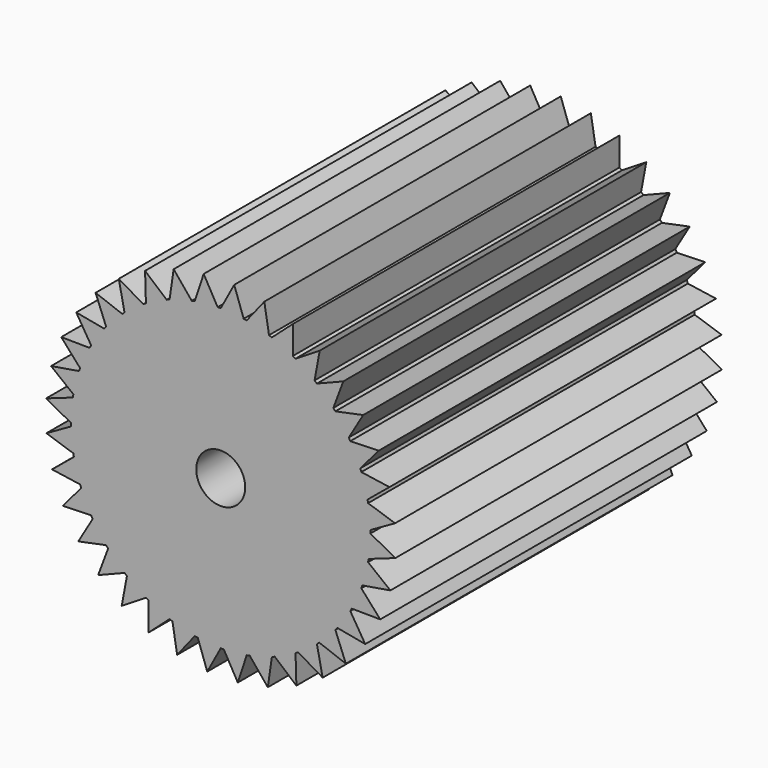
from build123d import *

# Parameters (mm, degrees)
F1_DEPTH = 63.5
F2_R     = 3.81
F3_DEPTH = 101.6


with BuildPart() as f1:
    # F0 (on Front) → F1 (new body)
    with BuildSketch(Plane.XZ):
        with BuildLine():
            Line((23.0036076923, -3.5707884211), (23.2791, 0))
            ThreePointArc((23.2791, 0), (23.2778729939, 0.2390098149), (23.2741921048, 0.477994434))
            Line((23.2741921048, 0.477994434), (22.9254381631, 4.0423732927))
            ThreePointArc((22.9254381631, 4.0423732927), (22.8827261792, 4.2775389441), (22.8376019675, 4.5122536702))
            Line((22.8376019675, 4.5122536702), (21.8751984885, 7.9619211185))
            ThreePointArc((21.8751984885, 7.9619211185), (21.7922993088, 8.186097217), (21.7071028508, 8.4094103619))
            Line((21.7071028508, 8.4094103619), (20.1602919772, 11.63955))
            ThreePointArc((20.1602919772, 11.63955), (20.0397244513, 11.8459250684), (19.9170443983, 12.0510513752))
            Line((19.9170443983, 12.0510513752), (17.8328251958, 14.9635170447))
            ThreePointArc((17.8328251958, 14.9635170447), (17.678252707, 15.1458204808), (17.5218166303, 15.3265272905))
            Line((17.5218166303, 15.3265272905), (14.9635170447, 17.8328251958))
            ThreePointArc((14.9635170447, 17.8328251958), (14.7796361998, 17.9855178022), (14.5941973304, 18.1363144297))
            Line((14.5941973304, 18.1363144297), (11.63955, 20.1602919772))
            ThreePointArc((11.63955, 20.1602919772), (11.4319479255, 20.2787342662), (11.2231407296, 20.3950388323))
            Line((11.2231407296, 20.3950388323), (7.9619211185, 21.8751984885))
            ThreePointArc((7.9619211185, 21.8751984885), (7.7369056983, 21.9557916511), (7.511074677, 22.0340703005))
            Line((7.511074677, 22.0340703005), (4.0423732927, 22.9254381631))
            ThreePointArc((4.0423732927, 22.9254381631), (3.8067815066, 22.9657334168), (3.5707884211, 23.0036076923))
            Line((3.5707884211, 23.0036076923), (0, 23.2791))
            ThreePointArc((0, 23.2791), (-0.2390098149, 23.2778729939), (-0.477994434, 23.2741921048))
            Line((-0.477994434, 23.2741921048), (-4.0423732927, 22.9254381631))
            ThreePointArc((-4.0423732927, 22.9254381631), (-4.2775389441, 22.8827261792), (-4.5122536702, 22.8376019675))
            Line((-4.5122536702, 22.8376019675), (-7.9619211185, 21.8751984885))
            ThreePointArc((-7.9619211185, 21.8751984885), (-8.186097217, 21.7922993088), (-8.4094103619, 21.7071028508))
            Line((-8.4094103619, 21.7071028508), (-11.63955, 20.1602919772))
            ThreePointArc((-11.63955, 20.1602919772), (-11.8459250684, 20.0397244513), (-12.0510513752, 19.9170443983))
            Line((-12.0510513752, 19.9170443983), (-14.9635170447, 17.8328251958))
            ThreePointArc((-14.9635170447, 17.8328251958), (-15.1458204808, 17.678252707), (-15.3265272905, 17.5218166303))
            Line((-15.3265272905, 17.5218166303), (-17.8328251958, 14.9635170447))
            ThreePointArc((-17.8328251958, 14.9635170447), (-17.9855178022, 14.7796361998), (-18.1363144297, 14.5941973304))
            Line((-18.1363144297, 14.5941973304), (-20.1602919772, 11.63955))
            ThreePointArc((-20.1602919772, 11.63955), (-20.2787342662, 11.4319479255), (-20.3950388323, 11.2231407296))
            Line((-20.3950388323, 11.2231407296), (-21.8751984885, 7.9619211185))
            ThreePointArc((-21.8751984885, 7.9619211185), (-21.9557916511, 7.7369056983), (-22.0340703005, 7.511074677))
            Line((-22.0340703005, 7.511074677), (-22.9254381631, 4.0423732927))
            ThreePointArc((-22.9254381631, 4.0423732927), (-22.9657334168, 3.8067815066), (-23.0036076923, 3.5707884211))
            Line((-23.0036076923, 3.5707884211), (-23.2791, 0))
            ThreePointArc((-23.2791, 0), (-23.2778729939, -0.2390098149), (-23.2741921048, -0.477994434))
            Line((-23.2741921048, -0.477994434), (-22.9254381631, -4.0423732927))
            ThreePointArc((-22.9254381631, -4.0423732927), (-22.8827261792, -4.2775389441), (-22.8376019675, -4.5122536702))
            Line((-22.8376019675, -4.5122536702), (-21.8751984885, -7.9619211185))
            ThreePointArc((-21.8751984885, -7.9619211185), (-21.7922993088, -8.186097217), (-21.7071028508, -8.4094103619))
            Line((-21.7071028508, -8.4094103619), (-20.1602919772, -11.63955))
            ThreePointArc((-20.1602919772, -11.63955), (-20.0397244513, -11.8459250684), (-19.9170443983, -12.0510513752))
            Line((-19.9170443983, -12.0510513752), (-17.8328251958, -14.9635170447))
            ThreePointArc((-17.8328251958, -14.9635170447), (-17.678252707, -15.1458204808), (-17.5218166303, -15.3265272905))
            Line((-17.5218166303, -15.3265272905), (-14.9635170447, -17.8328251958))
            ThreePointArc((-14.9635170447, -17.8328251958), (-14.7796361998, -17.9855178022), (-14.5941973304, -18.1363144297))
            Line((-14.5941973304, -18.1363144297), (-11.63955, -20.1602919772))
            ThreePointArc((-11.63955, -20.1602919772), (-11.4319479255, -20.2787342662), (-11.2231407296, -20.3950388323))
            Line((-11.2231407296, -20.3950388323), (-7.9619211185, -21.8751984885))
            ThreePointArc((-7.9619211185, -21.8751984885), (-7.7369056983, -21.9557916511), (-7.511074677, -22.0340703005))
            Line((-7.511074677, -22.0340703005), (-4.0423732927, -22.9254381631))
            ThreePointArc((-4.0423732927, -22.9254381631), (-3.8067815066, -22.9657334168), (-3.5707884211, -23.0036076923))
            Line((-3.5707884211, -23.0036076923), (0, -23.2791))
            ThreePointArc((0, -23.2791), (0.2390098149, -23.2778729939), (0.477994434, -23.2741921048))
            Line((0.477994434, -23.2741921048), (4.0423732927, -22.9254381631))
            ThreePointArc((4.0423732927, -22.9254381631), (4.2775389441, -22.8827261792), (4.5122536702, -22.8376019675))
            Line((4.5122536702, -22.8376019675), (7.9619211185, -21.8751984885))
            ThreePointArc((7.9619211185, -21.8751984885), (8.186097217, -21.7922993088), (8.4094103619, -21.7071028508))
            Line((8.4094103619, -21.7071028508), (11.63955, -20.1602919772))
            ThreePointArc((11.63955, -20.1602919772), (11.8459250684, -20.0397244513), (12.0510513752, -19.9170443983))
            Line((12.0510513752, -19.9170443983), (14.9635170447, -17.8328251958))
            ThreePointArc((14.9635170447, -17.8328251958), (15.1458204808, -17.678252707), (15.3265272905, -17.5218166303))
            Line((15.3265272905, -17.5218166303), (17.8328251958, -14.9635170447))
            ThreePointArc((17.8328251958, -14.9635170447), (17.9855178022, -14.7796361998), (18.1363144297, -14.5941973304))
            Line((18.1363144297, -14.5941973304), (20.1602919772, -11.63955))
            ThreePointArc((20.1602919772, -11.63955), (20.2787342662, -11.4319479255), (20.3950388323, -11.2231407296))
            Line((20.3950388323, -11.2231407296), (21.8751984885, -7.9619211185))
            ThreePointArc((21.8751984885, -7.9619211185), (21.9557916511, -7.7369056983), (22.0340703005, -7.511074677))
            Line((22.0340703005, -7.511074677), (22.9254381631, -4.0423732927))
            ThreePointArc((22.9254381631, -4.0423732927), (22.9657334168, -3.8067815066), (23.0036076923, -3.5707884211))
        make_face()
        with BuildLine():
            Line((27.1699581448, -2.09620778), (23.2791, 0))
            ThreePointArc((23.2791, 0), (23.2101247373, -1.7907), (23.0036076923, -3.5707884211))
            Line((23.0036076923, -3.5707884211), (27.1699581448, -2.09620778))
        make_face()
        with BuildLine():
            ThreePointArc((23.0036076923, -3.5707884211), (23.2101247373, -1.7907), (23.2791, 0))
            Line((23.2791, 0), (23.0036076923, -3.5707884211))
        make_face()
        with BuildLine():
            Line((22.9254381631, 4.0423732927), (23.2741921048, 0.477994434))
            ThreePointArc((23.2741921048, 0.477994434), (23.1684625814, 2.2669006207), (22.9254381631, 4.0423732927))
        make_face()
        with BuildLine():
            ThreePointArc((22.9254381631, 4.0423732927), (23.1684625814, 2.2669006207), (23.2741921048, 0.477994434))
            Line((23.2741921048, 0.477994434), (27.121188091, 2.6536520454))
            Line((27.121188091, 2.6536520454), (22.9254381631, 4.0423732927))
        make_face()
        with BuildLine():
            Line((26.393182769, -6.7823753928), (22.9254381631, -4.0423732927))
            ThreePointArc((22.9254381631, -4.0423732927), (22.5465589979, -5.7938911074), (22.0340703005, -7.511074677))
            Line((22.0340703005, -7.511074677), (26.393182769, -6.7823753928))
        make_face()
        with BuildLine():
            ThreePointArc((22.0340703005, -7.511074677), (22.5465589979, -5.7938911074), (22.9254381631, -4.0423732927))
            Line((22.9254381631, -4.0423732927), (22.0340703005, -7.511074677))
        make_face()
        with BuildLine():
            Line((21.8751984885, 7.9619211185), (22.8376019675, 4.5122536702))
            ThreePointArc((22.8376019675, 4.5122536702), (22.4228384138, 6.2556226132), (21.8751984885, 7.9619211185))
        make_face()
        with BuildLine():
            ThreePointArc((21.8751984885, 7.9619211185), (22.4228384138, 6.2556226132), (22.8376019675, 4.5122536702))
            Line((22.8376019675, 4.5122536702), (26.2483544611, 7.3228819963))
            Line((26.2483544611, 7.3228819963), (21.8751984885, 7.9619211185))
        make_face()
        with BuildLine():
            Line((24.8144638904, -11.2624639614), (21.8751984885, -7.9619211185))
            ThreePointArc((21.8751984885, -7.9619211185), (21.1979274725, -9.6210377653), (20.3950388323, -11.2231407296))
            Line((20.3950388323, -11.2231407296), (24.8144638904, -11.2624639614))
        make_face()
        with BuildLine():
            ThreePointArc((20.3950388323, -11.2231407296), (21.1979274725, -9.6210377653), (21.8751984885, -7.9619211185))
            Line((21.8751984885, -7.9619211185), (20.3950388323, -11.2231407296))
        make_face()
        with BuildLine():
            Line((20.1602919772, 11.63955), (21.7071028508, 8.4094103619))
            ThreePointArc((21.7071028508, 8.4094103619), (20.9959076475, 10.0542706781), (20.1602919772, 11.63955))
        make_face()
        with BuildLine():
            ThreePointArc((20.1602919772, 11.63955), (20.9959076475, 10.0542706781), (21.7071028508, 8.4094103619))
            Line((21.7071028508, 8.4094103619), (24.5779778632, 11.7696098833))
            Line((24.5779778632, 11.7696098833), (20.1602919772, 11.63955))
        make_face()
        with BuildLine():
            Line((22.4817700831, -15.4003482615), (20.1602919772, -11.63955))
            ThreePointArc((20.1602919772, -11.63955), (19.2052076475, -13.1558540592), (18.1363144297, -14.5941973304))
            Line((18.1363144297, -14.5941973304), (22.4817700831, -15.4003482615))
        make_face()
        with BuildLine():
            ThreePointArc((18.1363144297, -14.5941973304), (19.2052076475, -13.1558540592), (20.1602919772, -11.63955))
            Line((20.1602919772, -11.63955), (18.1363144297, -14.5941973304))
        make_face()
        with BuildLine():
            Line((17.8328251958, 14.9635170447), (19.9170443983, 12.0510513752))
            ThreePointArc((19.9170443983, 12.0510513752), (18.9310268518, 13.5474248161), (17.8328251958, 14.9635170447))
        make_face()
        with BuildLine():
            ThreePointArc((17.8328251958, 14.9635170447), (18.9310268518, 13.5474248161), (19.9170443983, 12.0510513752))
            Line((19.9170443983, 12.0510513752), (22.1608118449, 15.8587241297))
            Line((22.1608118449, 15.8587241297), (17.8328251958, 14.9635170447))
        make_face()
        with BuildLine():
            Line((19.4659790683, -19.0703007727), (17.8328251958, -14.9635170447))
            ThreePointArc((17.8328251958, -14.9635170447), (16.6289473064, -16.2909363847), (15.3265272905, -17.5218166303))
            Line((15.3265272905, -17.5218166303), (19.4659790683, -19.0703007727))
        make_face()
        with BuildLine():
            ThreePointArc((15.3265272905, -17.5218166303), (16.6289473064, -16.2909363847), (17.8328251958, -14.9635170447))
            Line((17.8328251958, -14.9635170447), (15.3265272905, -17.5218166303))
        make_face()
        with BuildLine():
            Line((14.9635170447, 17.8328251958), (17.5218166303, 15.3265272905))
            ThreePointArc((17.5218166303, 15.3265272905), (16.2909363847, 16.6289473064), (14.9635170447, 17.8328251958))
        make_face()
        with BuildLine():
            ThreePointArc((14.9635170447, 17.8328251958), (16.2909363847, 16.6289473064), (17.5218166303, 15.3265272905))
            Line((17.5218166303, 15.3265272905), (19.0703007727, 19.4659790683))
            Line((19.0703007727, 19.4659790683), (14.9635170447, 17.8328251958))
        make_face()
        with BuildLine():
            Line((15.8587241297, -22.1608118449), (14.9635170447, -17.8328251958))
            ThreePointArc((14.9635170447, -17.8328251958), (13.5474248161, -18.9310268518), (12.0510513752, -19.9170443983))
            Line((12.0510513752, -19.9170443983), (15.8587241297, -22.1608118449))
        make_face()
        with BuildLine():
            ThreePointArc((12.0510513752, -19.9170443983), (13.5474248161, -18.9310268518), (14.9635170447, -17.8328251958))
            Line((14.9635170447, -17.8328251958), (12.0510513752, -19.9170443983))
        make_face()
        with BuildLine():
            Line((11.63955, 20.1602919772), (14.5941973304, 18.1363144297))
            ThreePointArc((14.5941973304, 18.1363144297), (13.1558540592, 19.2052076475), (11.63955, 20.1602919772))
        make_face()
        with BuildLine():
            ThreePointArc((11.63955, 20.1602919772), (13.1558540592, 19.2052076475), (14.5941973304, 18.1363144297))
            Line((14.5941973304, 18.1363144297), (15.4003482615, 22.4817700831))
            Line((15.4003482615, 22.4817700831), (11.63955, 20.1602919772))
        make_face()
        with BuildLine():
            Line((11.7696098833, -24.5779778632), (11.63955, -20.1602919772))
            ThreePointArc((11.63955, -20.1602919772), (10.0542706781, -20.9959076475), (8.4094103619, -21.7071028508))
            Line((8.4094103619, -21.7071028508), (11.7696098833, -24.5779778632))
        make_face()
        with BuildLine():
            ThreePointArc((8.4094103619, -21.7071028508), (10.0542706781, -20.9959076475), (11.63955, -20.1602919772))
            Line((11.63955, -20.1602919772), (8.4094103619, -21.7071028508))
        make_face()
        with BuildLine():
            Line((7.9619211185, 21.8751984885), (11.2231407296, 20.3950388323))
            ThreePointArc((11.2231407296, 20.3950388323), (9.6210377653, 21.1979274725), (7.9619211185, 21.8751984885))
        make_face()
        with BuildLine():
            ThreePointArc((7.9619211185, 21.8751984885), (9.6210377653, 21.1979274725), (11.2231407296, 20.3950388323))
            Line((11.2231407296, 20.3950388323), (11.2624639614, 24.8144638904))
            Line((11.2624639614, 24.8144638904), (7.9619211185, 21.8751984885))
        make_face()
        with BuildLine():
            Line((7.3228819963, -26.2483544611), (7.9619211185, -21.8751984885))
            ThreePointArc((7.9619211185, -21.8751984885), (6.2556226132, -22.4228384138), (4.5122536702, -22.8376019675))
            Line((4.5122536702, -22.8376019675), (7.3228819963, -26.2483544611))
        make_face()
        with BuildLine():
            ThreePointArc((4.5122536702, -22.8376019675), (6.2556226132, -22.4228384138), (7.9619211185, -21.8751984885))
            Line((7.9619211185, -21.8751984885), (4.5122536702, -22.8376019675))
        make_face()
        with BuildLine():
            Line((4.0423732927, 22.9254381631), (7.511074677, 22.0340703005))
            ThreePointArc((7.511074677, 22.0340703005), (5.7938911074, 22.5465589979), (4.0423732927, 22.9254381631))
        make_face()
        with BuildLine():
            ThreePointArc((4.0423732927, 22.9254381631), (5.7938911074, 22.5465589979), (7.511074677, 22.0340703005))
            Line((7.511074677, 22.0340703005), (6.7823753928, 26.393182769))
            Line((6.7823753928, 26.393182769), (4.0423732927, 22.9254381631))
        make_face()
        with BuildLine():
            Line((2.6536520454, -27.121188091), (4.0423732927, -22.9254381631))
            ThreePointArc((4.0423732927, -22.9254381631), (2.2669006207, -23.1684625814), (0.477994434, -23.2741921048))
            Line((0.477994434, -23.2741921048), (2.6536520454, -27.121188091))
        make_face()
        with BuildLine():
            ThreePointArc((0.477994434, -23.2741921048), (2.2669006207, -23.1684625814), (4.0423732927, -22.9254381631))
            Line((4.0423732927, -22.9254381631), (0.477994434, -23.2741921048))
        make_face()
        with BuildLine():
            Line((0, 23.2791), (3.5707884211, 23.0036076923))
            ThreePointArc((3.5707884211, 23.0036076923), (1.7907, 23.2101247373), (0, 23.2791))
        make_face()
        with BuildLine():
            ThreePointArc((0, 23.2791), (1.7907, 23.2101247373), (3.5707884211, 23.0036076923))
            Line((3.5707884211, 23.0036076923), (2.09620778, 27.1699581448))
            Line((2.09620778, 27.1699581448), (0, 23.2791))
        make_face()
        with BuildLine():
            Line((-2.09620778, -27.1699581448), (0, -23.2791))
            ThreePointArc((0, -23.2791), (-1.7907, -23.2101247373), (-3.5707884211, -23.0036076923))
            Line((-3.5707884211, -23.0036076923), (-2.09620778, -27.1699581448))
        make_face()
        with BuildLine():
            ThreePointArc((-3.5707884211, -23.0036076923), (-1.7907, -23.2101247373), (0, -23.2791))
            Line((0, -23.2791), (-3.5707884211, -23.0036076923))
        make_face()
        with BuildLine():
            Line((-4.0423732927, 22.9254381631), (-0.477994434, 23.2741921048))
            ThreePointArc((-0.477994434, 23.2741921048), (-2.2669006207, 23.1684625814), (-4.0423732927, 22.9254381631))
        make_face()
        with BuildLine():
            ThreePointArc((-4.0423732927, 22.9254381631), (-2.2669006207, 23.1684625814), (-0.477994434, 23.2741921048))
            Line((-0.477994434, 23.2741921048), (-2.6536520454, 27.121188091))
            Line((-2.6536520454, 27.121188091), (-4.0423732927, 22.9254381631))
        make_face()
        with BuildLine():
            Line((-6.7823753928, -26.393182769), (-4.0423732927, -22.9254381631))
            ThreePointArc((-4.0423732927, -22.9254381631), (-5.7938911074, -22.5465589979), (-7.511074677, -22.0340703005))
            Line((-7.511074677, -22.0340703005), (-6.7823753928, -26.393182769))
        make_face()
        with BuildLine():
            ThreePointArc((-7.511074677, -22.0340703005), (-5.7938911074, -22.5465589979), (-4.0423732927, -22.9254381631))
            Line((-4.0423732927, -22.9254381631), (-7.511074677, -22.0340703005))
        make_face()
        with BuildLine():
            Line((-7.9619211185, 21.8751984885), (-4.5122536702, 22.8376019675))
            ThreePointArc((-4.5122536702, 22.8376019675), (-6.2556226132, 22.4228384138), (-7.9619211185, 21.8751984885))
        make_face()
        with BuildLine():
            ThreePointArc((-7.9619211185, 21.8751984885), (-6.2556226132, 22.4228384138), (-4.5122536702, 22.8376019675))
            Line((-4.5122536702, 22.8376019675), (-7.3228819963, 26.2483544611))
            Line((-7.3228819963, 26.2483544611), (-7.9619211185, 21.8751984885))
        make_face()
        with BuildLine():
            Line((-11.2624639614, -24.8144638904), (-7.9619211185, -21.8751984885))
            ThreePointArc((-7.9619211185, -21.8751984885), (-9.6210377653, -21.1979274725), (-11.2231407296, -20.3950388323))
            Line((-11.2231407296, -20.3950388323), (-11.2624639614, -24.8144638904))
        make_face()
        with BuildLine():
            ThreePointArc((-11.2231407296, -20.3950388323), (-9.6210377653, -21.1979274725), (-7.9619211185, -21.8751984885))
            Line((-7.9619211185, -21.8751984885), (-11.2231407296, -20.3950388323))
        make_face()
        with BuildLine():
            Line((-11.63955, 20.1602919772), (-8.4094103619, 21.7071028508))
            ThreePointArc((-8.4094103619, 21.7071028508), (-10.0542706781, 20.9959076475), (-11.63955, 20.1602919772))
        make_face()
        with BuildLine():
            ThreePointArc((-11.63955, 20.1602919772), (-10.0542706781, 20.9959076475), (-8.4094103619, 21.7071028508))
            Line((-8.4094103619, 21.7071028508), (-11.7696098833, 24.5779778632))
            Line((-11.7696098833, 24.5779778632), (-11.63955, 20.1602919772))
        make_face()
        with BuildLine():
            Line((-15.4003482615, -22.4817700831), (-11.63955, -20.1602919772))
            ThreePointArc((-11.63955, -20.1602919772), (-13.1558540592, -19.2052076475), (-14.5941973304, -18.1363144297))
            Line((-14.5941973304, -18.1363144297), (-15.4003482615, -22.4817700831))
        make_face()
        with BuildLine():
            ThreePointArc((-14.5941973304, -18.1363144297), (-13.1558540592, -19.2052076475), (-11.63955, -20.1602919772))
            Line((-11.63955, -20.1602919772), (-14.5941973304, -18.1363144297))
        make_face()
        with BuildLine():
            Line((-14.9635170447, 17.8328251958), (-12.0510513752, 19.9170443983))
            ThreePointArc((-12.0510513752, 19.9170443983), (-13.5474248161, 18.9310268518), (-14.9635170447, 17.8328251958))
        make_face()
        with BuildLine():
            ThreePointArc((-14.9635170447, 17.8328251958), (-13.5474248161, 18.9310268518), (-12.0510513752, 19.9170443983))
            Line((-12.0510513752, 19.9170443983), (-15.8587241297, 22.1608118449))
            Line((-15.8587241297, 22.1608118449), (-14.9635170447, 17.8328251958))
        make_face()
        with BuildLine():
            Line((-19.0703007727, -19.4659790683), (-14.9635170447, -17.8328251958))
            ThreePointArc((-14.9635170447, -17.8328251958), (-16.2909363847, -16.6289473064), (-17.5218166303, -15.3265272905))
            Line((-17.5218166303, -15.3265272905), (-19.0703007727, -19.4659790683))
        make_face()
        with BuildLine():
            ThreePointArc((-17.5218166303, -15.3265272905), (-16.2909363847, -16.6289473064), (-14.9635170447, -17.8328251958))
            Line((-14.9635170447, -17.8328251958), (-17.5218166303, -15.3265272905))
        make_face()
        with BuildLine():
            Line((-17.8328251958, 14.9635170447), (-15.3265272905, 17.5218166303))
            ThreePointArc((-15.3265272905, 17.5218166303), (-16.6289473064, 16.2909363847), (-17.8328251958, 14.9635170447))
        make_face()
        with BuildLine():
            ThreePointArc((-17.8328251958, 14.9635170447), (-16.6289473064, 16.2909363847), (-15.3265272905, 17.5218166303))
            Line((-15.3265272905, 17.5218166303), (-19.4659790683, 19.0703007727))
            Line((-19.4659790683, 19.0703007727), (-17.8328251958, 14.9635170447))
        make_face()
        with BuildLine():
            Line((-22.1608118449, -15.8587241297), (-17.8328251958, -14.9635170447))
            ThreePointArc((-17.8328251958, -14.9635170447), (-18.9310268518, -13.5474248161), (-19.9170443983, -12.0510513752))
            Line((-19.9170443983, -12.0510513752), (-22.1608118449, -15.8587241297))
        make_face()
        with BuildLine():
            ThreePointArc((-19.9170443983, -12.0510513752), (-18.9310268518, -13.5474248161), (-17.8328251958, -14.9635170447))
            Line((-17.8328251958, -14.9635170447), (-19.9170443983, -12.0510513752))
        make_face()
        with BuildLine():
            Line((-20.1602919772, 11.63955), (-18.1363144297, 14.5941973304))
            ThreePointArc((-18.1363144297, 14.5941973304), (-19.2052076475, 13.1558540592), (-20.1602919772, 11.63955))
        make_face()
        with BuildLine():
            ThreePointArc((-20.1602919772, 11.63955), (-19.2052076475, 13.1558540592), (-18.1363144297, 14.5941973304))
            Line((-18.1363144297, 14.5941973304), (-22.4817700831, 15.4003482615))
            Line((-22.4817700831, 15.4003482615), (-20.1602919772, 11.63955))
        make_face()
        with BuildLine():
            Line((-24.5779778632, -11.7696098833), (-20.1602919772, -11.63955))
            ThreePointArc((-20.1602919772, -11.63955), (-20.9959076475, -10.0542706781), (-21.7071028508, -8.4094103619))
            Line((-21.7071028508, -8.4094103619), (-24.5779778632, -11.7696098833))
        make_face()
        with BuildLine():
            ThreePointArc((-21.7071028508, -8.4094103619), (-20.9959076475, -10.0542706781), (-20.1602919772, -11.63955))
            Line((-20.1602919772, -11.63955), (-21.7071028508, -8.4094103619))
        make_face()
        with BuildLine():
            Line((-21.8751984885, 7.9619211185), (-20.3950388323, 11.2231407296))
            ThreePointArc((-20.3950388323, 11.2231407296), (-21.1979274725, 9.6210377653), (-21.8751984885, 7.9619211185))
        make_face()
        with BuildLine():
            ThreePointArc((-21.8751984885, 7.9619211185), (-21.1979274725, 9.6210377653), (-20.3950388323, 11.2231407296))
            Line((-20.3950388323, 11.2231407296), (-24.8144638904, 11.2624639614))
            Line((-24.8144638904, 11.2624639614), (-21.8751984885, 7.9619211185))
        make_face()
        with BuildLine():
            Line((-26.2483544611, -7.3228819963), (-21.8751984885, -7.9619211185))
            ThreePointArc((-21.8751984885, -7.9619211185), (-22.4228384138, -6.2556226132), (-22.8376019675, -4.5122536702))
            Line((-22.8376019675, -4.5122536702), (-26.2483544611, -7.3228819963))
        make_face()
        with BuildLine():
            ThreePointArc((-22.8376019675, -4.5122536702), (-22.4228384138, -6.2556226132), (-21.8751984885, -7.9619211185))
            Line((-21.8751984885, -7.9619211185), (-22.8376019675, -4.5122536702))
        make_face()
        with BuildLine():
            Line((-22.9254381631, 4.0423732927), (-22.0340703005, 7.511074677))
            ThreePointArc((-22.0340703005, 7.511074677), (-22.5465589979, 5.7938911074), (-22.9254381631, 4.0423732927))
        make_face()
        with BuildLine():
            ThreePointArc((-22.9254381631, 4.0423732927), (-22.5465589979, 5.7938911074), (-22.0340703005, 7.511074677))
            Line((-22.0340703005, 7.511074677), (-26.393182769, 6.7823753928))
            Line((-26.393182769, 6.7823753928), (-22.9254381631, 4.0423732927))
        make_face()
        with BuildLine():
            Line((-27.121188091, -2.6536520454), (-22.9254381631, -4.0423732927))
            ThreePointArc((-22.9254381631, -4.0423732927), (-23.1684625814, -2.2669006207), (-23.2741921048, -0.477994434))
            Line((-23.2741921048, -0.477994434), (-27.121188091, -2.6536520454))
        make_face()
        with BuildLine():
            ThreePointArc((-23.2741921048, -0.477994434), (-23.1684625814, -2.2669006207), (-22.9254381631, -4.0423732927))
            Line((-22.9254381631, -4.0423732927), (-23.2741921048, -0.477994434))
        make_face()
        with BuildLine():
            Line((-23.2791, 0), (-23.0036076923, 3.5707884211))
            ThreePointArc((-23.0036076923, 3.5707884211), (-23.2101247373, 1.7907), (-23.2791, 0))
        make_face()
        with BuildLine():
            ThreePointArc((-23.2791, 0), (-23.2101247373, 1.7907), (-23.0036076923, 3.5707884211))
            Line((-23.0036076923, 3.5707884211), (-27.1699581448, 2.09620778))
            Line((-27.1699581448, 2.09620778), (-23.2791, 0))
        make_face()
    extrude(amount=F1_DEPTH)

    # F2 (on face) → F3 (cut)
    with BuildSketch(Plane.XZ.offset(63.5)):
        Circle(F2_R)
    extrude(amount=-F3_DEPTH, mode=Mode.SUBTRACT)


solid = f1.part
